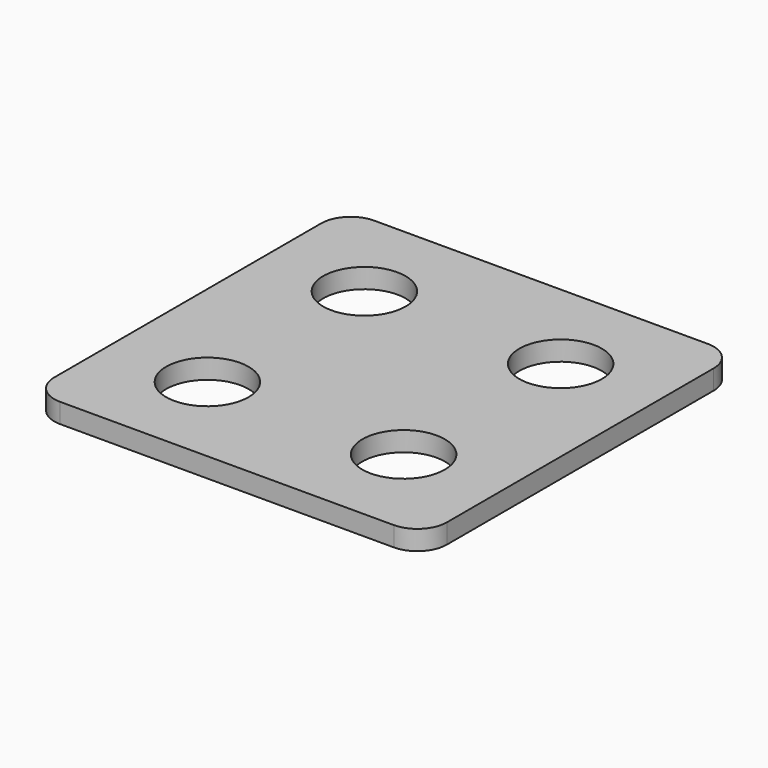
from build123d import *

# Parameters (mm, degrees)
SKETCH_R  = 2.1
PAD_DEPTH = 1


with BuildPart() as part:
    # Sketch → Pad (new body)
    with BuildSketch(Plane.XY):
        with BuildLine():
            Line((-13.5, 15), (3.5, 15))
            ThreePointArc((5, 13.5), (4.56066, 14.56066), (3.5, 15))
            Line((5, 13.5), (5, -3.5))
            ThreePointArc((3.5, -5), (4.56066, -4.56066), (5, -3.5))
            Line((3.5, -5), (-13.5, -5))
            ThreePointArc((-15, -3.5), (-14.56066, -4.56066), (-13.5, -5))
            Line((-15, -3.5), (-15, 13.5))
            ThreePointArc((-13.5, 15), (-14.56066, 14.56066), (-15, 13.5))
        make_face()
        with Locations((-10, 10)):
            Circle(SKETCH_R, mode=Mode.SUBTRACT)
        with Locations((0, 10)):
            Circle(SKETCH_R, mode=Mode.SUBTRACT)
        with Locations((-10, 0)):
            Circle(SKETCH_R, mode=Mode.SUBTRACT)
        Circle(SKETCH_R, mode=Mode.SUBTRACT)
    extrude(amount=PAD_DEPTH)


solid = part.part
